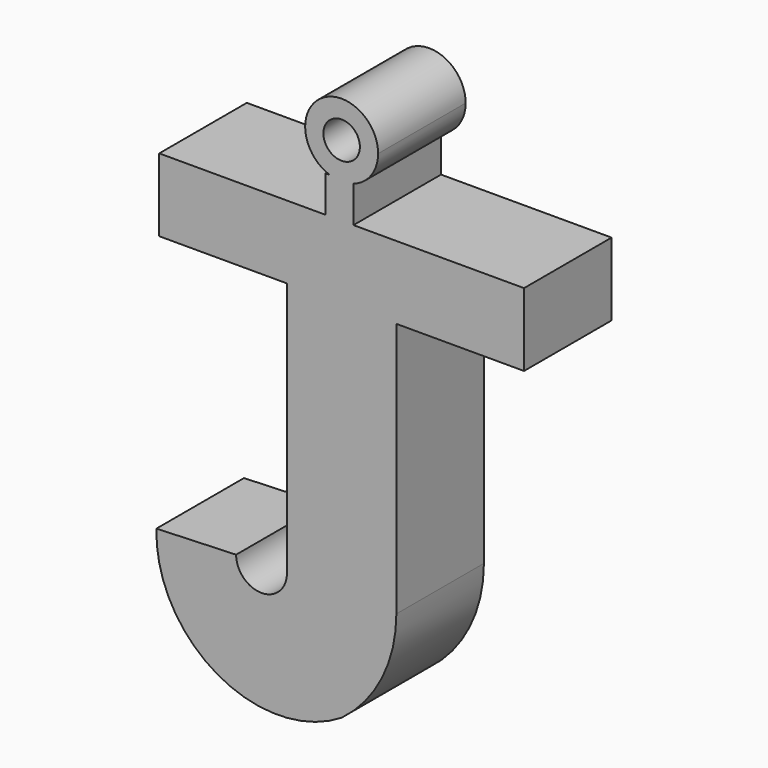
from build123d import *

# Parameters (mm, degrees)
F0_R     = 1.27
F1_DEPTH = 7.62


with BuildPart() as f1:
    # F0 (on Front) → F1 (new body)
    with BuildSketch(Plane.XZ):
        with BuildLine():
            Line((-1.1249838863, 0), (0, 0))
            Line((0, 0), (0.8244126237, 0))
            Line((0.8244126237, 0), (0.8244126237, 2.54))
            ThreePointArc((0.8244126237, 2.54), (0, 2.4024870085), (-0.8244126237, 2.54))
            Line((-0.8244126237, 2.54), (-1.1249838863, 2.54))
            Line((-1.1249838863, 2.54), (-1.1249838863, 0))
        make_face()
        with BuildLine():
            Line((0.8244126237, 0), (0, 0))
            Line((0, 0), (-1.1249838863, 0))
            Line((-1.1249838863, 0), (-12.7, 0))
            Line((-12.7, 0), (-12.7, -5.08))
            Line((-12.7, -5.08), (-3.81, -5.08))
            Line((-3.81, -5.08), (-3.81, -22.86))
            ThreePointArc((-3.81, -22.86), (-5.5788724448, -24.6288724448), (-7.3477448896, -22.86))
            Line((-7.3477448896, -22.86), (-12.896864675, -23.0650249869))
            ThreePointArc((-12.896864675, -23.0650249869), (-8.6576895541, -30.6153855835), (0, -30.4638519883))
            ThreePointArc((0, -30.4638519883), (2.8042172177, -27.1124894197), (3.81, -22.86))
            Line((3.81, -22.86), (3.81, -5.08))
            Line((3.81, -5.08), (12.7, -5.08))
            Line((12.7, -5.08), (12.7, 0))
            Line((12.7, 0), (0.8244126237, 0))
        make_face()
        with BuildLine():
            ThreePointArc((-0.8244126237, 2.54), (0, 2.4024870085), (0.8244126237, 2.54))
            Line((0.8244126237, 2.54), (-0.8244126237, 2.54))
        make_face()
        with BuildLine():
            Line((-0.8244126237, 2.54), (0.8244126237, 2.54))
            ThreePointArc((0.8244126237, 2.54), (2.0670762038, 3.4664124955), (2.54, 4.9424870085))
            ThreePointArc((2.54, 4.9424870085), (-1.476074513, 7.0095632122), (-0.8244126237, 2.54))
        make_face()
        with Locations((0, 4.9424870085)):
            Circle(F0_R, mode=Mode.SUBTRACT)
    extrude(amount=F1_DEPTH)


solid = f1.part
